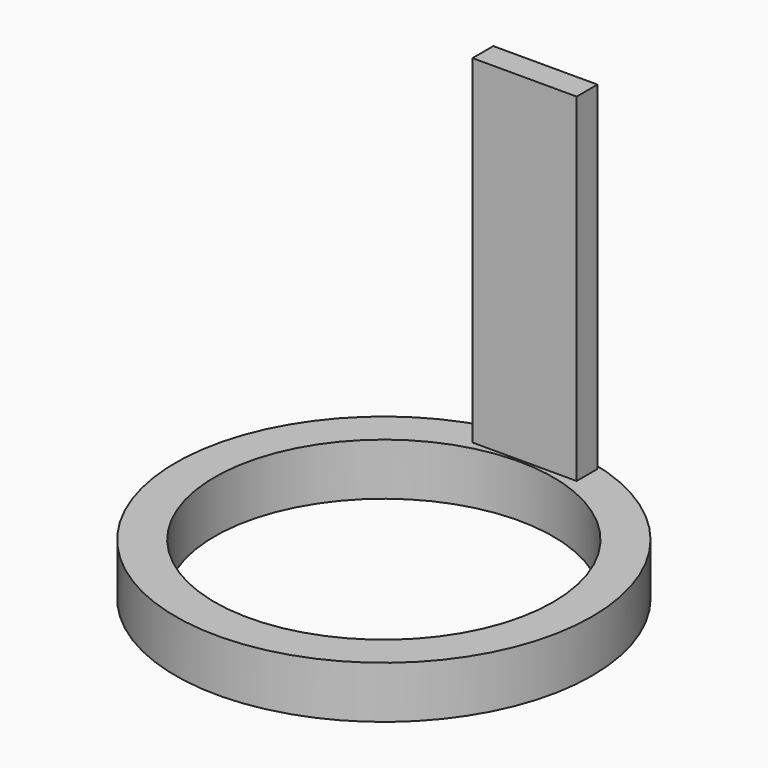
from build123d import *

# Parameters (mm, degrees)
F0_R     = 40
F0_R_2   = 32.5
F1_DEPTH = 10
F2_W     = 20
F2_H     = 5
F3_DEPTH = 65


with BuildPart() as f1:
    # F0 (on Top) → F1 (new body)
    with BuildSketch(Plane.XY):
        Circle(F0_R)
        Circle(F0_R_2, mode=Mode.SUBTRACT)
    extrude(amount=-F1_DEPTH)

    # F2 (on Top) → F3 (join)
    with BuildSketch(Plane.XY):
        with Locations((0.680517, 35.432968)):
            Rectangle(F2_W, F2_H)
    extrude(amount=F3_DEPTH)


solid = f1.part
